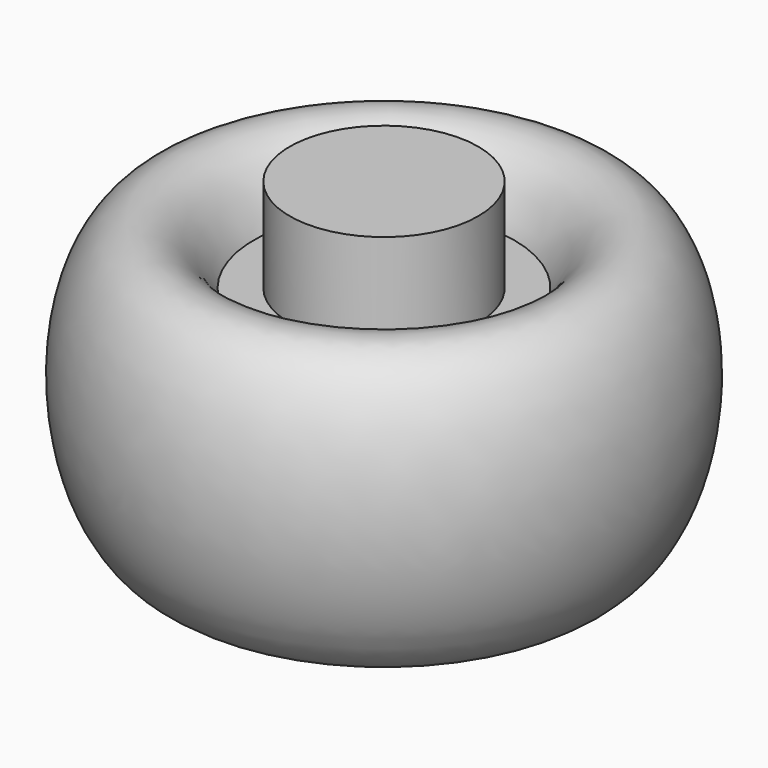
from build123d import *


with BuildPart() as f1:
    # F0 (on Front) → F1 (revolve)
    with BuildSketch(Plane.XZ):
        with BuildLine():
            Line((25.2488087863, 48.6203841865), (0, 48.6203841865))
            Line((0, 48.6203841865), (0, -32.2189624152))
            ThreePointArc((0, -32.2189624152), (18.3701109193, -26.4688602686), (30.1832127787, -11.2709895512))
            add(Edge.make_bspline(
                [(30.1832127787, -11.2709895512), (35.4970498711, -57.8671117738), (58.6402560557, -34.3677653659), (81.7834622404, -10.868418958), (66.6884774335, 25.7960379381), (51.5934926267, 62.4604948341), (34.8299675876, 23.4654359519)],
                knots=[5.0334260376, 5.0334260376, 5.0334260376, 6.817145483, 6.817145483, 8.6008649284, 8.6008649284, 10.3845843737, 10.3845843737, 10.3845843737], degree=2, weights=[1, 0.627965801, 1, 0.627965801, 1, 0.627965801, 1]))
            Line((34.8299675876, 23.4654359519), (25.2488087863, 23.4654359519))
            Line((25.2488087863, 23.4654359519), (25.2488087863, 48.6203841865))
        make_face()
    revolve(axis=Axis((0, 0, 0.6570331752), (0, 0, -1)))


solid = f1.part
